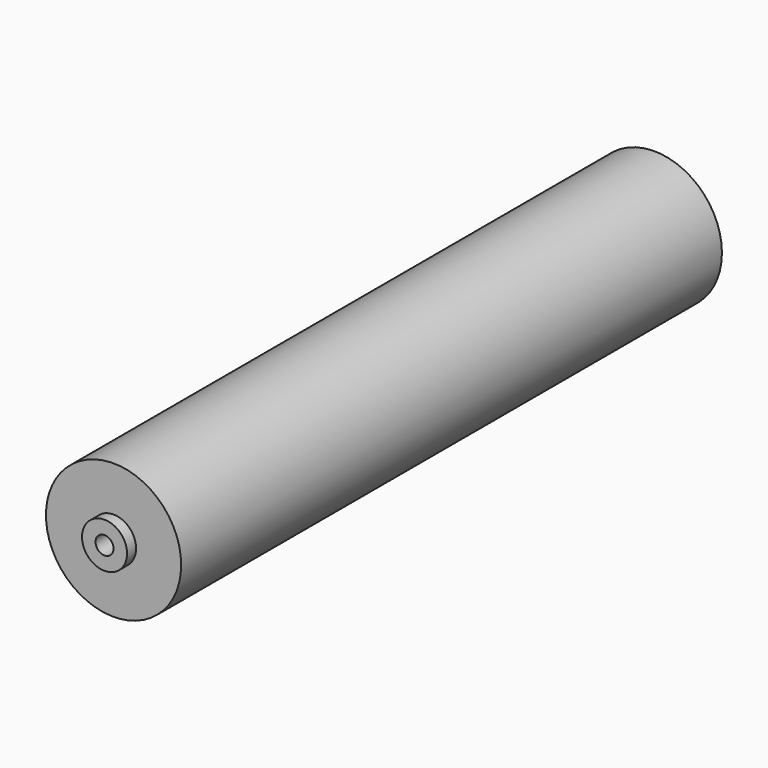
from build123d import *

# Parameters (mm, degrees)
F0_R     = 30
F0_R_2   = 4
F1_DEPTH = 300
F2_R     = 10
F2_R_2   = 4
F3_DEPTH = 5
F4_R     = 10
F4_R_2   = 4
F5_DEPTH = 5


with BuildPart() as f1:
    # F0 (on Front) → F1 (new body)
    with BuildSketch(Plane.XZ):
        Circle(F0_R)
        Circle(F0_R_2, mode=Mode.SUBTRACT)
    extrude(amount=F1_DEPTH)

    # F2 (on face) → F3 (join)
    with BuildSketch(Plane.XZ.offset(300)):
        Circle(F2_R)
        Circle(F2_R_2, mode=Mode.SUBTRACT)
    extrude(amount=F3_DEPTH)

    # F4 (on face) → F5 (join)
    with BuildSketch(Plane(origin=(0, 0, 0), x_dir=(-1, 0, 0), z_dir=(0, 1, 0))):
        Circle(F4_R)
        Circle(F4_R_2, mode=Mode.SUBTRACT)
    extrude(amount=F5_DEPTH)


solid = f1.part
